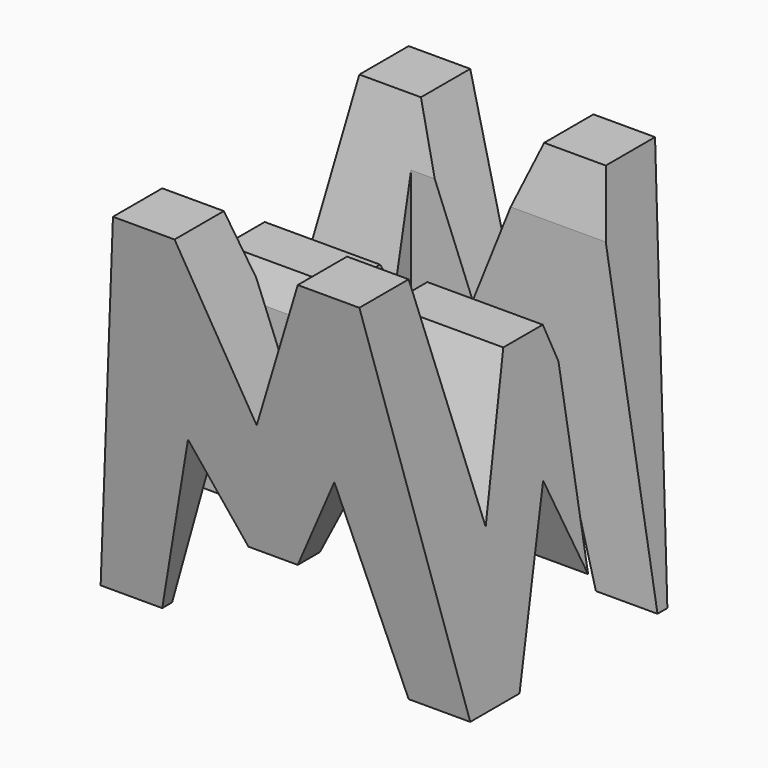
from build123d import *

# Parameters (mm, degrees)
F0_W      = 38.1
F0_H      = 38.1
F1_DEPTH  = 38.1
F6_DEPTH  = 38.1
F8_DEPTH  = 38.1
F9_W      = 25.4
F9_H      = 7.62
F10_DEPTH = 38.1


with BuildPart() as f1:
    # F0 (on Front) → F1 (new body)
    with BuildSketch(Plane.XZ):
        with Locations((19.05, 19.05)):
            Rectangle(F0_W, F0_H)
    extrude(amount=F1_DEPTH)

    # F5 (on offset) → F6 (cut)
    with BuildSketch(Plane.YZ.offset(38.1)):
        Polygon((-31.75, 0), (-38.1, 38.1), (-38.1, 0), align=None)
        Polygon((-11.43, 13.711954), (-6.35, 38.1), (-31.75, 38.1), (-26.67, 14.843467), (-21.59, 28.318408), (-16.51, 28.318408), align=None)
        Polygon((-25.4, 0), (-12.7, 0), (-19.05, 15.875), align=None)
        Polygon((-6.35, 0), (0, 0), (0, 38.1), align=None)
    extrude(amount=-F6_DEPTH, mode=Mode.SUBTRACT)

    # F7 (on offset) → F8 (cut)
    with BuildSketch(Plane.XZ.offset(38.1)):
        Polygon((0, 38.1), (0, 0), (6.35, 38.1), align=None)
        Polygon((25.4, 38.1), (12.7, 38.1), (19.05, 22.225), align=None)
        Polygon((11.43, 18.192268), (6.35, 0), (31.75, 0), (26.67, 19.355342), (21.59, 9.525), (16.51, 9.525), align=None)
        Polygon((31.75, 38.1), (38.1, 0), (38.1, 38.1), align=None)
    extrude(amount=-F8_DEPTH, mode=Mode.SUBTRACT)

    # F9 (on offset) → F10 (cut)
    with BuildSketch(Plane.XY.offset(38.1)):
        with Locations((25.4, -11.43)):
            Rectangle(F9_W, F9_H)
        with Locations((12.7, -26.67)):
            Rectangle(F9_W, F9_H)
    extrude(amount=-F10_DEPTH, mode=Mode.SUBTRACT)


solid = f1.part
